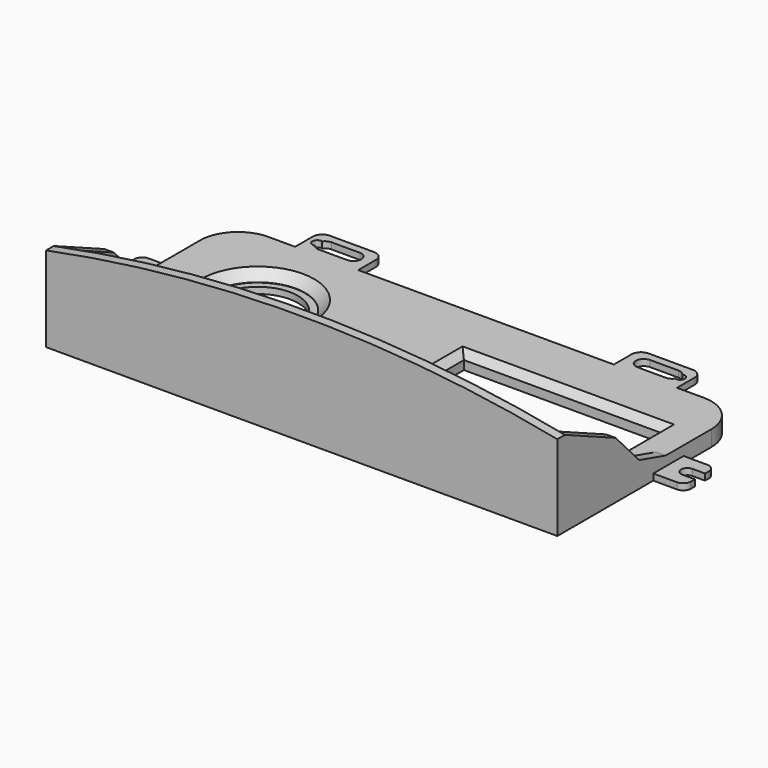
from build123d import *

# Parameters (mm, degrees)
PAD_DEPTH       = 5
PAD001_DEPTH    = 30
POCKET_DEPTH    = 162.001
POCKET001_DEPTH = 5
PAD002_DEPTH    = 5
POCKET002_DEPTH = 5.001
SKETCH007_W     = 22.303925
SKETCH007_H     = 15.153027
SKETCH007_W_2   = 15.272888
SKETCH007_H_2   = 13.786167
POCKET003_DEPTH = 3
SKETCH008_W     = 25.606406
SKETCH008_H     = 16.851532
SKETCH008_W_2   = 36.655319
SKETCH008_H_2   = 18.371552
POCKET004_DEPTH = 3
SKETCH009_R     = 1.5
POCKET005_DEPTH = 5
SKETCH010_R     = 3.6
SKETCH010_R_2   = 12.75
POCKET006_DEPTH = 5.001
SKETCH011_W     = 5.6250572961
SKETCH011_H     = 4
POCKET007_DEPTH = 5.001
SKETCH012_R     = 15
POCKET008_DEPTH = 3
SKETCH013_R     = 6.1
POCKET009_DEPTH = 1
SKETCH_R        = 1.4
POCKET010_DEPTH = 3.5
POCKET011_DEPTH = 0.2
SKETCH016_W     = 10
SKETCH016_H     = 12
POCKET013_DEPTH = 2.5
SKETCH018_W     = 7.2
SKETCH018_H     = 7.2
POCKET015_DEPTH = 0.2
POCKET016_DEPTH = 3
CHAMFER_SIZE    = 2.2
CHAMFER001_SIZE = 2.9


with BuildPart() as part:
    # Sketch001 → Pad (new body)
    with BuildSketch(Plane.XY):
        with BuildLine():
            Line((0, 0), (162, 0))
            Line((162, 0), (162, 61))
            ThreePointArc((162, 61), (158.4852813742, 69.4852813742), (150, 73))
            Line((150, 73), (12, 73))
            ThreePointArc((12, 73), (3.5147186258, 69.4852813742), (0, 61))
            Line((0, 61), (0, 0))
        make_face()
    extrude(amount=PAD_DEPTH)

    # Sketch002 (on Face8 of Pad) → Pad001 (join)
    with BuildSketch(Plane.XY.offset(5)):
        Polygon((0, 0), (0, 43), (3, 43), (3, 3), (159, 3), (159, 43), (162, 43), (162, 0), align=None)
    extrude(amount=PAD001_DEPTH)

    # Sketch003 (on Face10 of Pad001) → Pocket (cut, through all)
    with BuildSketch(Plane.YZ.offset(162)):
        Polygon((43, 5), (32.4169947557, 8), (23.0748598999, 18), (3, 27), (3, 35), (43, 35), align=None)
    extrude(amount=-POCKET_DEPTH, mode=Mode.SUBTRACT)

    # Sketch004 (on Face5 of Pocket) → Pocket001 (cut)
    with BuildSketch(Plane.XZ):
        with BuildLine():
            Line((0, 27), (0, 61.0433678259))
            Line((0, 61.0433678259), (162, 61.0433678259))
            Line((162, 61.0433678259), (162, 27))
            ThreePointArc((162, 27), (81, 35), (0, 27))
        make_face()
    extrude(amount=-POCKET001_DEPTH, mode=Mode.SUBTRACT)

    # Sketch005 (on Face7 of Pocket001) → Pad002 (join)
    with BuildSketch(Plane.XY.offset(5)):
        with BuildLine():
            Line((162, 50), (169.5, 50))
            ThreePointArc((172, 47.5), (171.267766953, 49.267766953), (169.5, 50))
            Line((172, 47.5), (172, 40.5))
            ThreePointArc((169.5, 38), (171.267766953, 38.732233047), (172, 40.5))
            Line((169.5, 38), (162, 38))
            Line((162, 38), (162, 50))
        make_face()
        with BuildLine():
            Line((0, 50), (-7.5, 50))
            ThreePointArc((-7.5, 50), (-9.267766953, 49.267766953), (-10, 47.5))
            Line((-10, 47.5), (-10, 40.5))
            ThreePointArc((-10, 40.5), (-9.267766953, 38.732233047), (-7.5, 38))
            Line((-7.5, 38), (0, 38))
            Line((0, 38), (0, 50))
        make_face()
        with BuildLine():
            Line((20.5, 73), (40.5, 73))
            Line((40.5, 73), (40.5, 80))
            ThreePointArc((40.5, 80), (39.6213203436, 82.1213203436), (37.5, 83))
            Line((37.5, 83), (23.5, 83))
            ThreePointArc((23.5, 83), (21.3786796564, 82.1213203436), (20.5, 80))
            Line((20.5, 80), (20.5, 73))
        make_face()
        with BuildLine():
            Line((121.5, 73), (141.5, 73))
            Line((141.5, 73), (141.5, 80))
            ThreePointArc((141.5, 80), (140.6213203436, 82.1213203436), (138.5, 83))
            Line((138.5, 83), (124.5, 83))
            ThreePointArc((124.5, 83), (122.3786796564, 82.1213203436), (121.5, 80))
            Line((121.5, 80), (121.5, 73))
        make_face()
    extrude(amount=-PAD002_DEPTH)

    # Sketch006 (on Face56 of Pad002) → Pocket002 (cut, through all)
    with BuildSketch(Plane.XY.offset(5)):
        with BuildLine():
            ThreePointArc((26, 80.5), (23.5, 78), (26, 75.5))
            Line((26, 75.5), (35, 75.5))
            ThreePointArc((35, 75.5), (37.5, 78), (35, 80.5))
            Line((35, 80.5), (26, 80.5))
        make_face()
        with BuildLine():
            ThreePointArc((127, 80.5), (124.5, 78), (127, 75.5))
            Line((127, 75.5), (136, 75.5))
            ThreePointArc((136, 75.5), (138.5, 78), (136, 80.5))
            Line((136, 80.5), (127, 80.5))
        make_face()
        with BuildLine():
            ThreePointArc((-15.2672618866, 46), (-17.2672618866, 44), (-15.2672618866, 42))
            Line((-15.2672618866, 42), (-6, 42))
            ThreePointArc((-6, 42), (-4, 44), (-6, 46))
            Line((-6, 46), (-15.2672618866, 46))
        make_face()
        with BuildLine():
            ThreePointArc((180.8359560682, 42), (182.8359560682, 44), (180.8359560682, 46))
            Line((180.8359560682, 46), (168, 46))
            ThreePointArc((168, 46), (166, 44), (168, 42))
            Line((168, 42), (180.8359560682, 42))
        make_face()
    extrude(amount=-POCKET002_DEPTH, mode=Mode.SUBTRACT)

    # Sketch007 (on Face29 of Pocket002) → Pocket003 (cut)
    with BuildSketch(Plane.XY.offset(5)):
        with Locations((-11.1519625, 45.5765135)):
            Rectangle(SKETCH007_W, SKETCH007_H)
        with Locations((169.636444, 43.1069165)):
            Rectangle(SKETCH007_W_2, SKETCH007_H_2)
    extrude(amount=-POCKET003_DEPTH, mode=Mode.SUBTRACT)

    # Sketch008 (on Face4 of Pocket003) → Pocket004 (cut)
    with BuildSketch(Plane(origin=(0, 0, 0), x_dir=(1, 0, 0), z_dir=(0, 0, -1))):
        with Locations((27.696797, -81.425766)):
            Rectangle(SKETCH008_W, SKETCH008_H)
        with Locations((139.8276595, -82.185776)):
            Rectangle(SKETCH008_W_2, SKETCH008_H_2)
    extrude(amount=-POCKET004_DEPTH, mode=Mode.SUBTRACT)

    # Sketch009 (on Face29 of Pocket004) → Pocket005 (cut)
    with BuildSketch(Plane.XY.offset(5)):
        with Locations((138.5, 78)):
            Circle(SKETCH009_R)
        with Locations((23.5, 78)):
            Circle(SKETCH009_R)
    extrude(amount=-POCKET005_DEPTH, mode=Mode.SUBTRACT)

    # Sketch010 (on Face65 of Pocket005) → Pocket006 (cut, through all)
    with BuildSketch(Plane.XY.offset(5)):
        with Locations((68.4, 38)):
            Circle(SKETCH010_R)
        with Locations((31.0483132961, 45)):
            Circle(SKETCH010_R_2)
        Polygon((88.4, 55), (151, 55), (151, 16), (138.5, 16), (136.5000000003, 14), (102.9, 14), (100.9, 16), (88.4, 16), align=None)
    extrude(amount=-POCKET006_DEPTH, mode=Mode.SUBTRACT)

    # Sketch011 (on Face69 of Pocket006) → Pocket007 (cut, through all)
    with BuildSketch(Plane.XY.offset(5)):
        with Locations((42.985784648, 45)):
            Rectangle(SKETCH011_W, SKETCH011_H)
    extrude(amount=-POCKET007_DEPTH, mode=Mode.SUBTRACT)

    # Sketch012 (on Face42 of Pocket007) → Pocket008 (cut)
    with BuildSketch(Plane.XY.offset(5)):
        with Locations((31.0483132961, 45)):
            Circle(SKETCH012_R)
    extrude(amount=-POCKET008_DEPTH, mode=Mode.SUBTRACT)

    # Sketch013 (on Face72 of Pocket008) → Pocket009 (cut)
    with BuildSketch(Plane.XY.offset(5)):
        with Locations((68.4, 38)):
            Circle(SKETCH013_R)
    extrude(amount=-POCKET009_DEPTH, mode=Mode.SUBTRACT)

    # Sketch (on Face4 of Pocket009) → Pocket010 (cut)
    with BuildSketch(Plane(origin=(0, 0, 0), x_dir=(1, 0, 0), z_dir=(0, 0, -1))):
        with Locations((85.9, -16)):
            Circle(SKETCH_R)
        with Locations((153.5, -16)):
            Circle(SKETCH_R)
        with Locations((85.9, -55)):
            Circle(SKETCH_R)
        with Locations((153.5, -55)):
            Circle(SKETCH_R)
    extrude(amount=-POCKET010_DEPTH, mode=Mode.SUBTRACT)

    # Sketch014 (on Face81 of Pocket010) → Pocket011 (cut)
    with BuildSketch(Plane(origin=(0, 0, 3.5), x_dir=(1, 0, 0), z_dir=(0, 0, -1))):
        with BuildLine():
            Line((85.15, -56.1821590418), (85.15, -53.8178409582))
            ThreePointArc((86.65, -53.8178409582), (85.9, -53.6310250587), (85.15, -53.8178409582))
            Line((86.65, -56.1821590418), (86.65, -53.8178409582))
            ThreePointArc((85.15, -56.1821590418), (85.9, -56.3158445643), (86.65, -56.1821590418))
        make_face()
        with BuildLine():
            Line((152.75, -17.1821590418), (152.75, -14.8178409582))
            ThreePointArc((154.25, -14.8178409582), (153.5, -14.6), (152.75, -14.8178409582))
            Line((154.25, -14.8178409582), (154.25, -17.1821590418))
            ThreePointArc((152.75, -17.1821590418), (153.5, -17.4), (154.25, -17.1821590418))
        make_face()
        with BuildLine():
            Line((152.75, -56.1821590418), (152.75, -53.8178409582))
            ThreePointArc((154.25, -53.8178409582), (153.5, -53.6), (152.75, -53.8178409582))
            Line((154.25, -56.1821590418), (154.25, -53.8178409582))
            ThreePointArc((152.75, -56.1821590418), (153.5, -56.4), (154.25, -56.1821590418))
        make_face()
        with BuildLine():
            Line((85.15, -17.1821590418), (85.15, -14.8178409582))
            ThreePointArc((86.65, -14.8178409582), (85.9, -14.6), (85.15, -14.8178409582))
            Line((86.65, -14.8178409582), (86.65, -17.1821590418))
            ThreePointArc((85.15, -17.1821590418), (85.9, -17.4337278664), (86.65, -17.1821590418))
        make_face()
    extrude(amount=-POCKET011_DEPTH, mode=Mode.SUBTRACT)

    # Sketch016 → Pocket013 (cut)
    with BuildSketch(Plane(origin=(0, 0, 0), x_dir=(1, 0, 0), z_dir=(0, 0, -1))):
        with Locations((68.4, -37)):
            Rectangle(SKETCH016_W, SKETCH016_H)
    extrude(amount=-POCKET013_DEPTH, mode=Mode.SUBTRACT)

    # Sketch018 → Pocket015 (cut)
    with BuildSketch(Plane.XZ.offset(-55.75)):
        with Locations((68.4, -38)):
            Rectangle(SKETCH018_W, SKETCH018_H)
    extrude(amount=-POCKET015_DEPTH, mode=Mode.SUBTRACT)

    # Sketch019 (on Face4 of Pocket015) → Pocket016 (cut)
    with BuildSketch(Plane(origin=(0, 0, 0), x_dir=(1, 0, 0), z_dir=(0, 0, -1))):
        with BuildLine():
            ThreePointArc((88, -25), (86.5, -23.5), (85, -25))
            Line((85, -25), (85, -45))
            ThreePointArc((85, -45), (86.5, -46.5), (88, -45))
            Line((88, -45), (88, -25))
        make_face()
    extrude(amount=-POCKET016_DEPTH, mode=Mode.SUBTRACT)

    # Chamfer
    chamfer_edges = [part.edges().sort_by_distance(p)[0] for p in [
        (88.4, 29.5, 5),
        (119.7, 55, 5),
        (151, 49, 5),
        (151, 29.5, 5),
        (144.75, 16, 5),
        (137.5, 15, 5),
        (119.7, 14, 5),
        (101.9, 15, 5),
        (94.65, 16, 5),
    ]]
    chamfer(chamfer_edges, length=CHAMFER_SIZE)

    # Chamfer001
    chamfer001_edges = [part.edges().sort_by_distance(p)[0] for p in [
        (30.046074, 59.96648, 5),
    ]]
    chamfer(chamfer001_edges, length=CHAMFER001_SIZE)


solid = part.part
